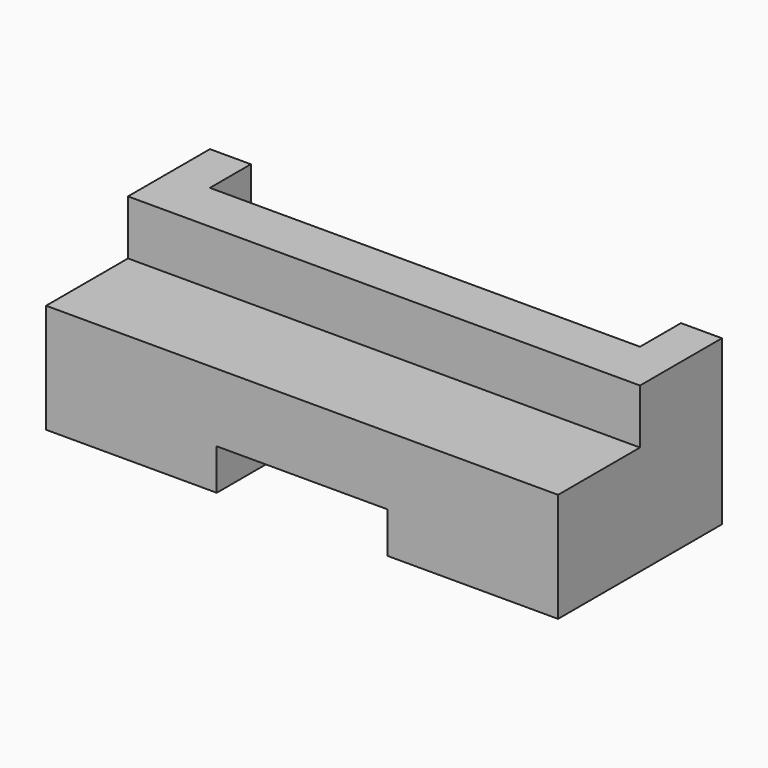
from build123d import *

# Parameters (mm, degrees)
F1_DEPTH = 150
F2_W     = 50
F2_H     = 12
F3_DEPTH = 60
F4_W     = 126
F4_H     = 15.081386
F5_DEPTH = 48


with BuildPart() as f1:
    # F0 (on Right) → F1 (new body)
    with BuildSketch(Plane.YZ):
        Polygon((0, 32), (0, 0), (60, 0), (60, 48), (30, 48), (30, 32), align=None)
    extrude(amount=F1_DEPTH)

    # F2 (on Front) → F3 (cut)
    with BuildSketch(Plane.XZ):
        with Locations((75, 6)):
            Rectangle(F2_W, F2_H)
    extrude(amount=-F3_DEPTH, mode=Mode.SUBTRACT)

    # F4 (on Top) → F5 (cut)
    with BuildSketch(Plane.XY):
        with Locations((75, 52.540693)):
            Rectangle(F4_W, F4_H)
    extrude(amount=F5_DEPTH, mode=Mode.SUBTRACT)


solid = f1.part
